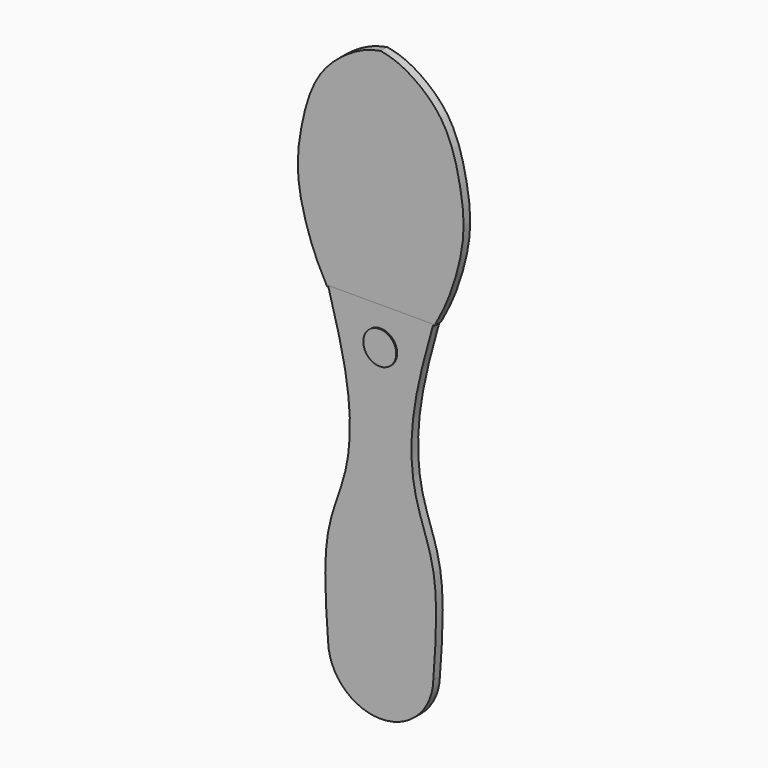
from build123d import *

# Parameters (mm, degrees)
F2_DEPTH = 1.778
F3_R     = 3.5376885561
F4_DEPTH = 0.254


with BuildPart() as f2:
    # F1 (on face) → F2 (new body)
    with BuildSketch(Plane.XZ):
        with BuildLine():
            add(Edge.make_bspline(
                [(-11.5308519453, 18.1199125946), (-12.5632574999, 20.0211138596), (-14.9147056221, 24.4291977931), (-18.4606353402, 36.4233259277), (-17.2261789221, 46.7645790924), (-14.0583007371, 58.6815578988), (-4.8286528791, 65.3213674178), (-1.3724477125, 66.0694099207), (0, 66.361233592)],
                knots=[0, 0, 0, 0, 0.1450382977, 0.3354750356, 0.5134059115, 0.7031070309, 0.8817336505, 1, 1, 1, 1], degree=3))
            Line((-11.5308519453, 18.1199125946), (-11.2295764155, 18.1199125946))
            add(Edge.make_bspline(
                [(-11.2955272198, 18.3552373201), (-11.2735429638, 18.2767956188), (-11.2515587078, 18.1983539175), (-11.2295764155, 18.1199125946)],
                knots=[0, 0, 0, 0, 0.0033439465, 0.0033439465, 0.0033439465, 0.0033439465], degree=3))
            Line((-11.2955272198, 18.3552373201), (0, 18.3552373201))
            Line((0, 18.3552373201), (11.2955272198, 18.3552373201))
            add(Edge.make_bspline(
                [(11.2955272198, 18.3552373201), (11.2735429638, 18.2767956188), (11.2515587078, 18.1983539175), (11.2295764155, 18.1199125946)],
                knots=[0, 0, 0, 0, 0.0033439465, 0.0033439465, 0.0033439465, 0.0033439465], degree=3))
            Line((11.2295764155, 18.1199125946), (11.5308519453, 18.1199125946))
            add(Edge.make_bspline(
                [(11.5308519453, 18.1199125946), (12.5632574999, 20.0211138596), (14.9147056221, 24.4291977931), (18.4606353402, 36.4233259277), (17.2261789221, 46.7645790924), (14.0583007371, 58.6815578988), (4.8286528791, 65.3213674178), (1.3724477125, 66.0694099207), (0, 66.361233592)],
                knots=[0, 0, 0, 0, 0.1450382977, 0.3354750356, 0.5134059115, 0.7031070309, 0.8817336505, 1, 1, 1, 1], degree=3))
        make_face()
    extrude(amount=F2_DEPTH)


with BuildPart() as f2b:
    # F0 (on Front) → F2, piece 2 (new body)
    with BuildSketch(Plane.XZ):
        with BuildLine():
            Line((11.2955272198, 18.3552373201), (0, 18.3552373201))
            Line((0, 18.3552373201), (-11.2955272198, 18.3552373201))
            add(Edge.make_bspline(
                [(-11.2955272198, 18.3552373201), (-9.5634787199, 12.1751404741), (-6.2703010662, 0.4248015931), (-6.5280857797, -15.5867064637), (-12.7856682908, -28.1909512846), (-11.8264331141, -41.5522479919), (-11.2955272198, -48.9472970366)],
                knots=[0, 0, 0, 0, 0.263455699, 0.500913468, 0.7237716172, 1, 1, 1, 1], degree=3))
            ThreePointArc((-11.2955272198, -48.9472970366), (-7.8754450124, -56.7282144149), (0, -59.9246191781))
            ThreePointArc((0, -59.9246191781), (7.8754450124, -56.7282144149), (11.2955272198, -48.9472970366))
            add(Edge.make_bspline(
                [(11.2955272198, 18.3552373201), (9.5634787199, 12.1751404741), (6.2703010662, 0.4248015931), (6.5280857797, -15.5867064637), (12.7856682908, -28.1909512846), (11.8264331141, -41.5522479919), (11.2955272198, -48.9472970366)],
                knots=[0, 0, 0, 0, 0.263455699, 0.500913468, 0.7237716172, 1, 1, 1, 1], degree=3))
        make_face()
    extrude(amount=F2_DEPTH)

    # F3 (on face) → F4 (join)
    with BuildSketch(Plane.XZ.offset(1.778)):
        with Locations((0, 10.3542357683)):
            Circle(F3_R)
    extrude(amount=F4_DEPTH)


solid = Compound([f2.part, f2b.part])
